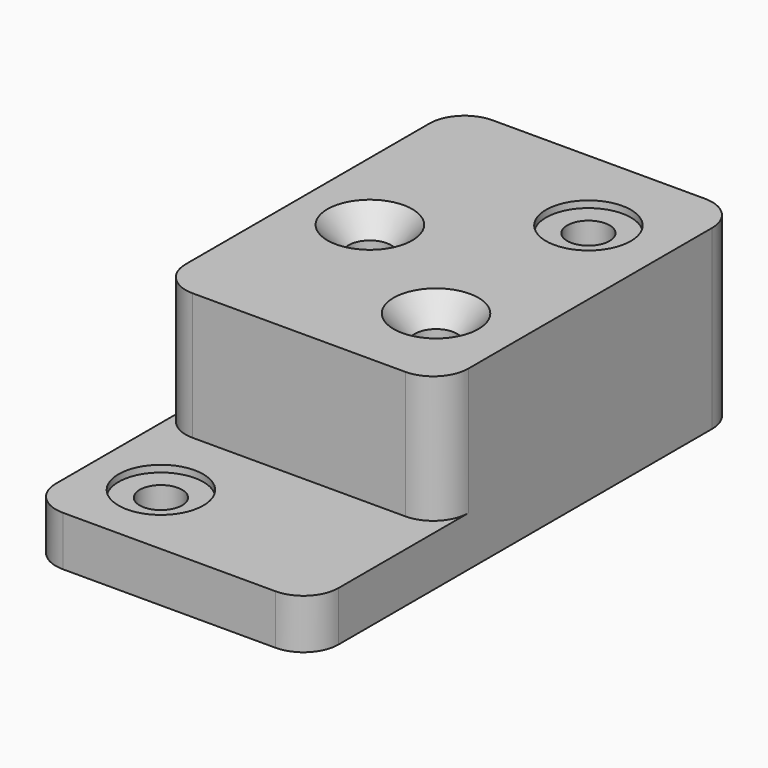
from build123d import *

# Parameters (mm, degrees)
F0_W            = 127
F0_H            = 79.502
F1_DEPTH        = 241.3
F2_W            = 127
F2_H            = 72.898
F3_DEPTH        = 57.15
F4_R            = 15.748
F5_R            = 19.05
F6_DEPTH        = 3.048
F7_R            = 9.525
F8_DEPTH        = 76.455
F10_D           = 19.05
F10_CSINK_D     = 38.1
F10_CSINK_ANGLE = 81
F11_R           = 19.05
F12_DEPTH       = 3.048
F13_R           = 9.525
F14_DEPTH       = 19.305


with BuildPart() as f1:
    # F0 (on Front) → F1 (new body)
    with BuildSketch(Plane.XZ):
        with Locations((63.5, 39.751)):
            Rectangle(F0_W, F0_H)
    extrude(amount=F1_DEPTH)

    # F2 (on face) → F3 (cut)
    with BuildSketch(Plane.XY.offset(79.502)):
        with Locations((63.5, -204.851)):
            Rectangle(F2_W, F2_H)
    extrude(amount=-F3_DEPTH, mode=Mode.SUBTRACT)

    # F4
    f4_edges = [f1.edges().sort_by_distance(p)[0] for p in [
        (127, 0, 39.751),
        (0, 0, 39.751),
        (0, -168.402, 50.927),
        (127, -168.402, 50.927),
        (127, -241.3, 11.176),
        (0, -241.3, 11.176),
    ]]
    fillet(f4_edges, radius=F4_R)

    # F5 (on face) → F6 (cut)
    with BuildSketch(Plane.XY.offset(79.502)):
        with Locations((91.948, -41.402)):
            Circle(F5_R)
    extrude(amount=-F6_DEPTH, mode=Mode.SUBTRACT)

    # F7 (on face) → F8 (cut, through all)
    with BuildSketch(Plane.XY.offset(76.454)):
        with Locations((91.948, -41.402)):
            Circle(F7_R)
    extrude(amount=-F8_DEPTH, mode=Mode.SUBTRACT)

    # F10 (through all)
    with Locations(Plane.XY.offset(79.502)):
        with Locations((31.75, -88.9), (91.948, -127)):
            CounterSinkHole(F10_D / 2, F10_CSINK_D / 2, counter_sink_angle=F10_CSINK_ANGLE)

    # F11 (on face) → F12 (cut)
    with BuildSketch(Plane.XY.offset(22.352)):
        with Locations((31.75, -206.248)):
            Circle(F11_R)
    extrude(amount=-F12_DEPTH, mode=Mode.SUBTRACT)

    # F13 (on face) → F14 (cut, through all)
    with BuildSketch(Plane.XY.offset(19.304)):
        with Locations((31.75, -206.248)):
            Circle(F13_R)
    extrude(amount=-F14_DEPTH, mode=Mode.SUBTRACT)


solid = f1.part
